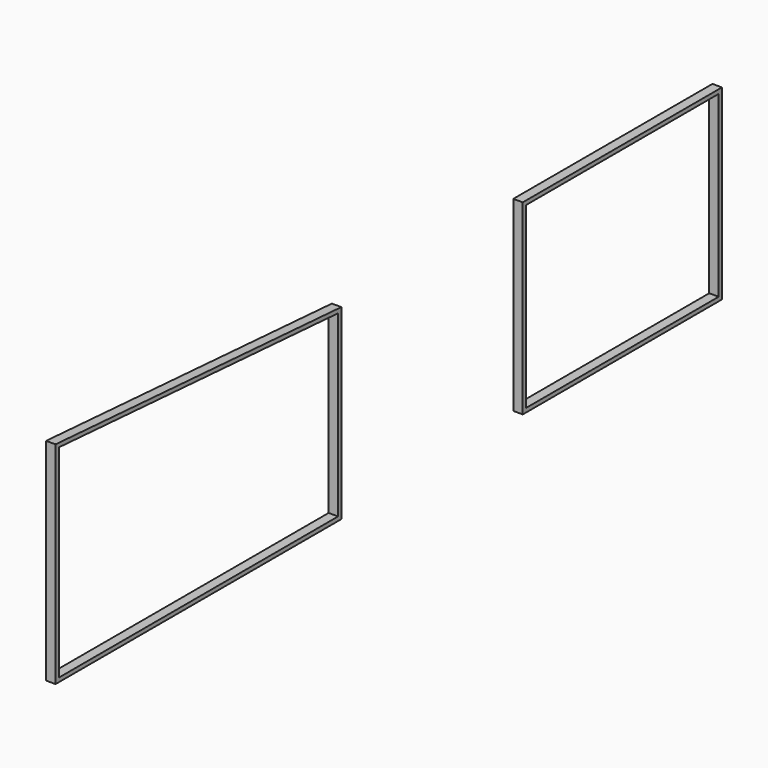
from build123d import *

# Parameters (mm, degrees)
F0_W     = 2336.8
F0_H     = 1752.6
F0_W_2   = 2260.6
F0_H_2   = 1676.4
F1_DEPTH = 88.9


with BuildPart() as f1:
    # F0 (on Right) → F1 (new body)
    with BuildSketch(Plane.YZ):
        Polygon((-3352.8, 1981.2), (-3352.8, 0), (0, 0), (0, 1752.6), align=None)
        Polygon((-3314.7, 38.1), (-3314.7, 1940.413817), (-38.1, 1717.009271), (-38.1, 38.1), align=None, mode=Mode.SUBTRACT)
        with Locations((3296.98367, 876.3)):
            Rectangle(F0_W, F0_H)
        with Locations((3296.98367, 876.3)):
            Rectangle(F0_W_2, F0_H_2, mode=Mode.SUBTRACT)
    extrude(amount=F1_DEPTH)


solid = f1.part
